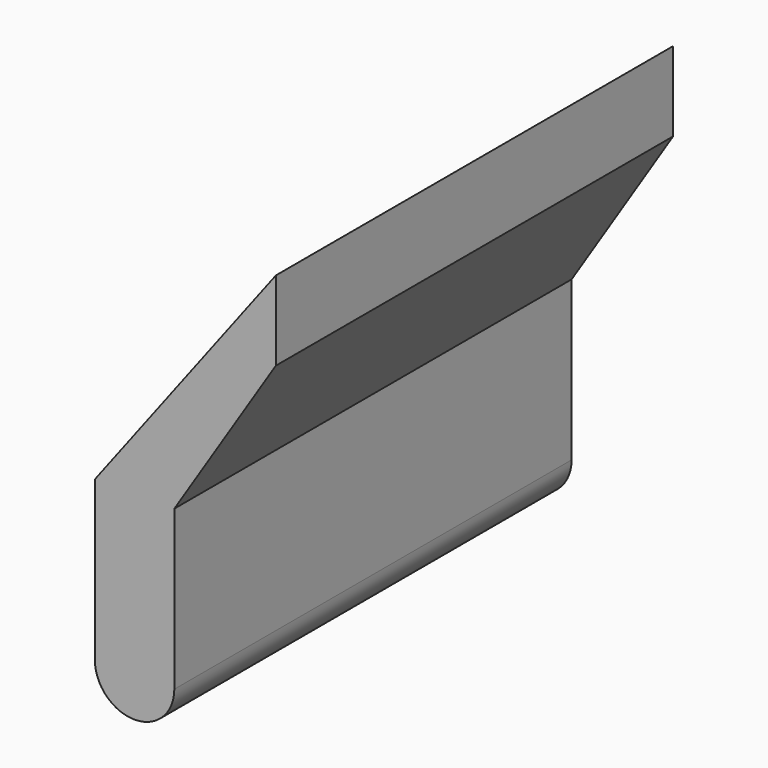
from build123d import *

# Parameters (mm, degrees)
F1_DEPTH = 250


with BuildPart() as f1:
    # F0 (on Front) → F1 (new body)
    with BuildSketch(Plane.XZ):
        with BuildLine():
            ThreePointArc((-20, 0), (0, -20), (20, 0))
            ThreePointArc((20, 0), (0, 20), (-20, 0))
        make_face()
        with BuildLine():
            ThreePointArc((-20, 0), (0, 20), (20, 0))
            Line((20, 0), (20, 80))
            Line((20, 80), (71.106307, 160))
            Line((71.106307, 160), (71.106307, 200))
            Line((71.106307, 200), (-20, 80))
            Line((-20, 80), (-20, 0))
        make_face()
    extrude(amount=F1_DEPTH)


solid = f1.part
